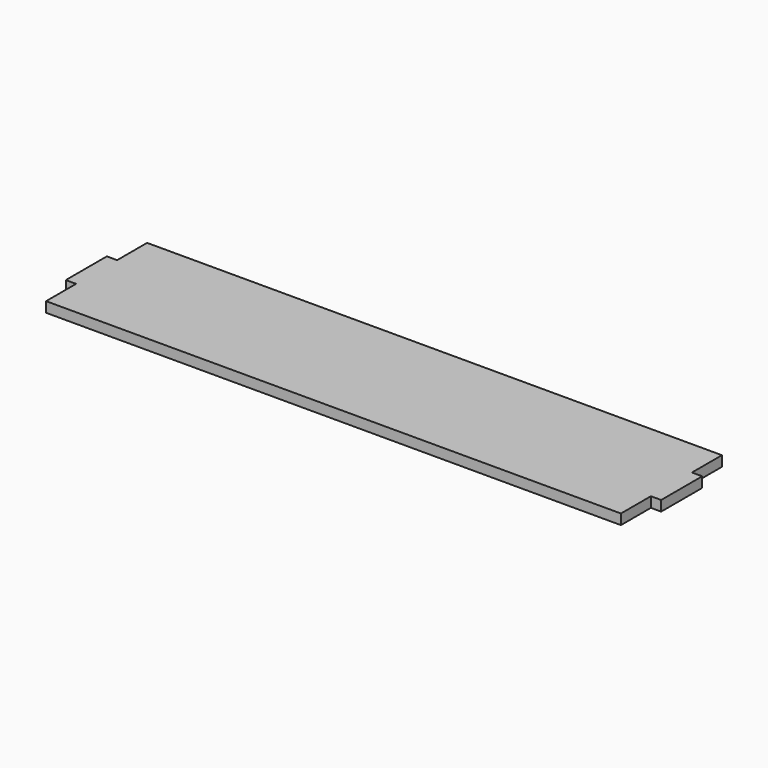
from build123d import *

# Parameters (mm, degrees)
PAD_DEPTH = 10


with BuildPart() as part:
    # Sketch → Pad (new body)
    with BuildSketch(Plane.XY):
        Polygon((0, 0), (560, 0), (560, 36.5), (570, 36.5), (570, 86.5), (560, 86.5), (560, 123), (0, 123), (0, 86.5), (-10, 86.5), (-10, 36.5), (0, 36.5), align=None)
    extrude(amount=PAD_DEPTH)


solid = part.part
